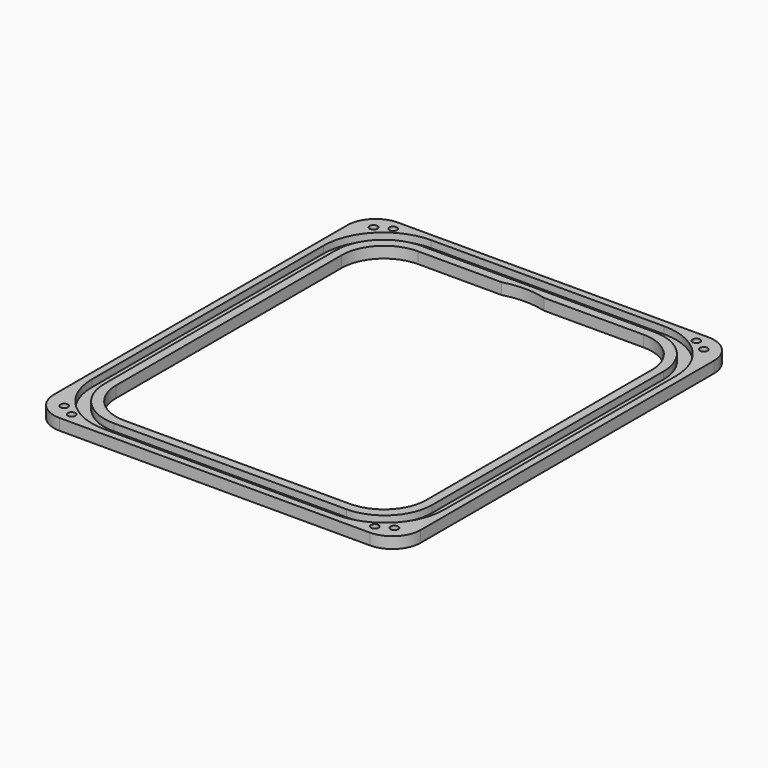
from build123d import *

# Parameters (mm, degrees)
F1_DEPTH = 5.08
F3_DEPTH = 3.175
F5_D     = 3.4544
F7_D     = 3.429
F8_R     = 36.195
F9_DEPTH = 5.081


with BuildPart() as f1:
    # F0 (on Top) → F1 (new body)
    with BuildSketch(Plane.XY):
        with BuildLine():
            ThreePointArc((0, 12.7), (3.7197438789, 3.7197438789), (12.7, 0))
            Line((12.7, 0), (152.4, 0))
            ThreePointArc((152.4, 0), (161.3802561211, 3.7197438789), (165.1, 12.7))
            Line((165.1, 12.7), (165.1, 177.8))
            ThreePointArc((165.1, 177.8), (161.3802561211, 186.7802561211), (152.4, 190.5))
            Line((152.4, 190.5), (12.7, 190.5))
            ThreePointArc((12.7, 190.5), (3.7197438789, 186.7802561211), (0, 177.8))
            Line((0, 177.8), (0, 12.7))
        make_face()
        with BuildLine():
            ThreePointArc((12.7, 158.75), (18.2796158184, 172.2203841816), (31.75, 177.8))
            Line((31.75, 177.8), (133.35, 177.8))
            ThreePointArc((133.35, 177.8), (146.8203841816, 172.2203841816), (152.4, 158.75))
            Line((152.4, 158.75), (152.4, 31.75))
            ThreePointArc((152.4, 31.75), (146.8203841816, 18.2796158184), (133.35, 12.7))
            Line((133.35, 12.7), (31.75, 12.7))
            ThreePointArc((31.75, 12.7), (18.2796158184, 18.2796158184), (12.7, 31.75))
            Line((12.7, 31.75), (12.7, 158.75))
        make_face(mode=Mode.SUBTRACT)
    extrude(amount=F1_DEPTH)

    # F2 (on face) → F3 (cut)
    with BuildSketch(Plane.XY.offset(5.08)):
        with BuildLine():
            ThreePointArc((3.175, 30.1498), (11.0757359988, 11.0757359988), (30.1498, 3.175))
            Line((30.1498, 3.175), (134.9502, 3.175))
            ThreePointArc((134.9502, 3.175), (154.0242640012, 11.0757359988), (161.925, 30.1498))
            Line((161.925, 30.1498), (161.925, 160.3502))
            ThreePointArc((161.925, 160.3502), (154.0242640012, 179.4242640012), (134.9502, 187.325))
            Line((134.9502, 187.325), (30.1498, 187.325))
            ThreePointArc((30.1498, 187.325), (11.0757359988, 179.4242640012), (3.175, 160.3502))
            Line((3.175, 160.3502), (3.175, 30.1498))
        make_face()
        with BuildLine():
            ThreePointArc((30.1498, 8.763), (15.0270486921, 15.0270486921), (8.763, 30.1498))
            Line((8.763, 30.1498), (8.763, 160.3502))
            ThreePointArc((8.763, 160.3502), (15.0270486921, 175.4729513079), (30.1498, 181.737))
            Line((30.1498, 181.737), (134.9502, 181.737))
            ThreePointArc((134.9502, 181.737), (150.0729513079, 175.4729513079), (156.337, 160.3502))
            Line((156.337, 160.3502), (156.337, 30.1498))
            ThreePointArc((156.337, 30.1498), (150.0729513079, 15.0270486921), (134.9502, 8.763))
            Line((134.9502, 8.763), (30.1498, 8.763))
        make_face(mode=Mode.SUBTRACT)
    extrude(amount=-F3_DEPTH, mode=Mode.SUBTRACT)

    # F5 (through all)
    with Locations(Plane(origin=(0, 0, 0), x_dir=(1, 0, 0), z_dir=(0, 0, -1))):
        with Locations((8.2098719395, -182.2901280605), (156.8901280605, -182.2901280605), (156.8901280605, -8.2098719395), (8.2098719395, -8.2098719395)):
            Hole(F5_D / 2)

    # F7 (through all)
    with Locations(Plane.XY.offset(5.08)):
        with Locations((14.3002, 185.7248), (150.7998, 185.7248), (14.3002, 4.7752), (150.7998, 4.7752)):
            Hole(F7_D / 2)

    # F8 (on face) → F9 (cut, through all)
    with BuildSketch(Plane.XY.offset(5.08)):
        with Locations((79.0035873652, 142.875)):
            Circle(F8_R)
    extrude(amount=-F9_DEPTH, mode=Mode.SUBTRACT)


solid = f1.part
